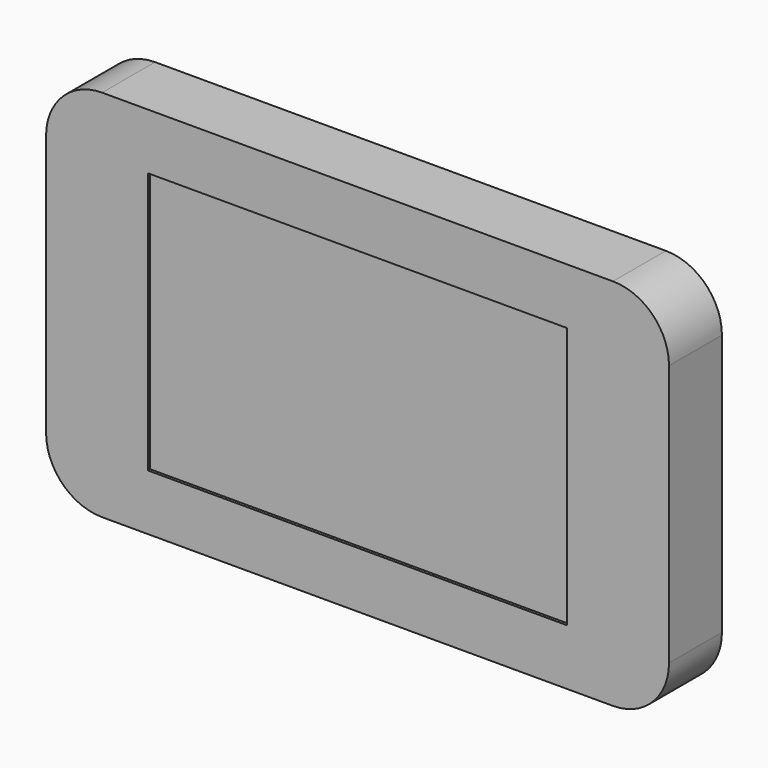
from build123d import *

# Parameters (mm, degrees)
F1_DEPTH = 23.6
F2_W     = 149.606
F2_H     = 93.3704
F3_DEPTH = 1


with BuildPart() as f1:
    # F0 (on Front) → F1 (new body)
    with BuildSketch(Plane.XZ):
        with BuildLine():
            Line((91.125, 66.675), (-91.125, 66.675))
            ThreePointArc((-91.125, 66.675), (-105.267136, 60.817136), (-111.125, 46.675))
            Line((-111.125, 46.675), (-111.125, -46.675))
            ThreePointArc((-111.125, -46.675), (-105.267136, -60.817136), (-91.125, -66.675))
            Line((-91.125, -66.675), (91.125, -66.675))
            ThreePointArc((91.125, -66.675), (105.267136, -60.817136), (111.125, -46.675))
            Line((111.125, -46.675), (111.125, 46.675))
            ThreePointArc((111.125, 46.675), (105.267136, 60.817136), (91.125, 66.675))
        make_face()
    extrude(amount=F1_DEPTH)

    # F2 (on face) → F3 (cut)
    with BuildSketch(Plane.XZ.offset(23.6)):
        Rectangle(F2_W, F2_H)
    extrude(amount=-F3_DEPTH, mode=Mode.SUBTRACT)


solid = f1.part
